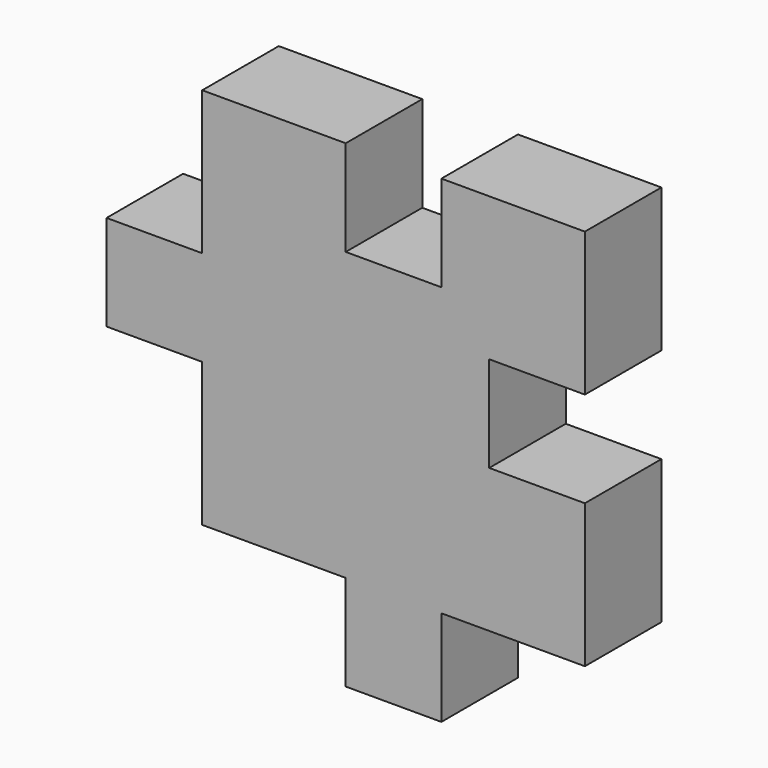
from build123d import *

# Parameters (mm, degrees)
F1_DEPTH = 6.35


with BuildPart() as f1:
    # F0 (on Front) → F1 (new body)
    with BuildSketch(Plane.XZ):
        Polygon((-3.175, 6.35), (-3.175, 12.7), (-12.7, 12.7), (-12.7, 3.175), (-19.05, 3.175), (-19.05, -3.175), (-12.7, -3.175), (-12.7, -12.7), (-3.175, -12.7), (-3.175, -19.05), (3.175, -19.05), (3.175, -12.7), (12.7, -12.7), (12.7, -3.175), (6.35, -3.175), (6.35, 3.175), (12.7, 3.175), (12.7, 12.7), (3.175, 12.7), (3.175, 6.35), (0, 6.35), align=None)
    extrude(amount=F1_DEPTH)


solid = f1.part
